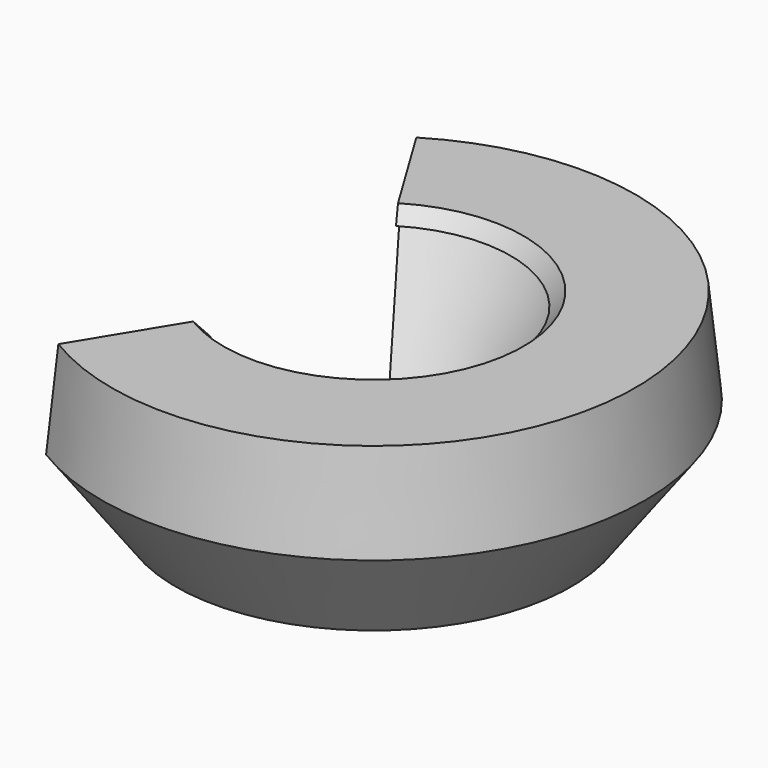
from build123d import *

# Parameters (mm, degrees)
F2_ANGLE = 242.631105


with BuildPart() as f2:
    # F0 (on Front) → F2 (revolve, symmetric)
    with BuildSketch(Plane.XZ) as f2_sk:
        Polygon((36.124457, 30.471444), (2.095406, 30.471444), (-1.693323, 26.322305), (5.362239, 25.53685), (-18.062208, -17.349653), (16.651124, -29.059894), (39.228894, 1.446627), align=None)
    revolve(axis=Axis((-43.462213, 0, 5.015243), (0, 0, -1)), revolution_arc=F2_ANGLE / 2)
    revolve(f2_sk.sketch, axis=Axis((-43.462213, 0, 5.015243), (0, 0, 1)), revolution_arc=F2_ANGLE / 2)


solid = f2.part
